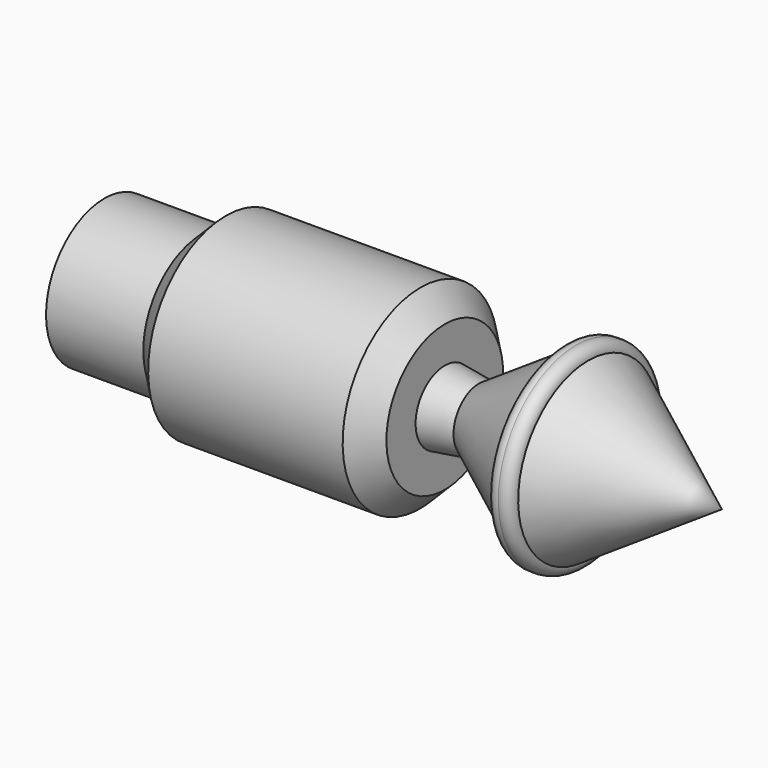
from build123d import *

# Parameters (mm, degrees)
F0_W   = 40
F0_H   = 20
F0_W_2 = 20
F0_H_2 = 15


with BuildPart() as f1:
    # F0 (on Front) → F1 (revolve)
    with BuildSketch(Plane.XZ):
        Polygon((-52.988372, 15), (-52.988372, 0), (-47.988372, 0), (-47.988372, 20), align=None)
        with Locations((-27.988372, 10)):
            Rectangle(F0_W, F0_H)
        Polygon((-7.988372, 20), (-7.988372, 0), (-2.988372, 0), (-2.988372, 7.5), (-2.988372, 15), align=None)
        Polygon((-2.988372, 7.5), (-2.988372, 0), (4.011628, 0), (4.011628, 6.5), align=None)
        Polygon((4.011628, 6.5), (4.011628, 0), (21.511628, 0), (21.511628, 18), align=None)
        with BuildLine():
            Line((21.511628, 18), (21.511628, 0))
            Line((21.511628, 0), (24.011628, 0))
            Line((24.011628, 0), (24.011628, 20))
            ThreePointArc((24.011628, 20), (22.281003, 19.600781), (21.511628, 18))
        make_face()
        with BuildLine():
            Line((24.011628, 20), (24.011628, 0))
            Line((24.011628, 0), (26.511628, 0))
            Line((26.511628, 0), (26.511628, 18))
            ThreePointArc((26.511628, 18), (25.742253, 19.600781), (24.011628, 20))
        make_face()
        Polygon((26.511628, 18), (26.511628, 0), (44.011628, 0), (54.011628, 0), align=None)
        with Locations((-62.988372, 7.5)):
            Rectangle(F0_W_2, F0_H_2)
    revolve(axis=Axis((-24.488372, 0, 0), (1, 0, 0)))


solid = f1.part
